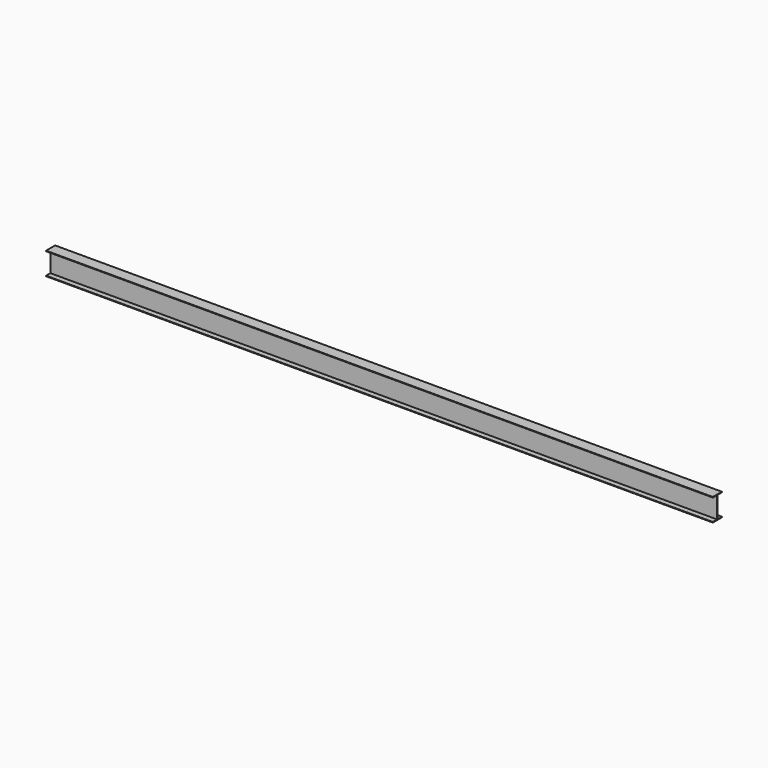
from build123d import *

# Parameters (mm, degrees)
F1_DEPTH = 3000


with BuildPart() as f1:
    # F0 (on Right) → F1 (new body, symmetric)
    with BuildSketch(Plane.YZ):
        Polygon((51, 96.500002), (51, 101.5), (-51, 101.5), (-51, 96.500002), (-2.5, 96.500002), (-2.5, -96.500002), (-51, -96.500002), (-51, -101.5), (51, -101.5), (51, -96.500002), (2.5, -96.500002), (2.5, 96.500002), align=None)
    extrude(amount=F1_DEPTH, both=True)


solid = f1.part
